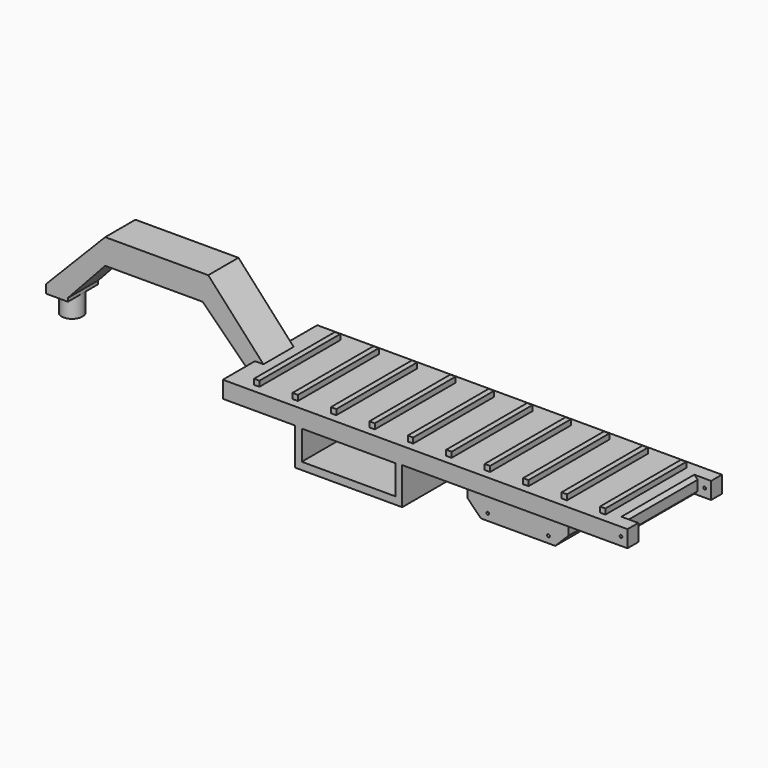
from build123d import *

# Parameters (mm, degrees)
F0_W      = 152.4
F0_H      = 44.45
F1_DEPTH  = 6.35
F2_W      = 38.1
F2_H      = 30.48
F3_DEPTH  = 12.7
F2_W_2    = 5.08
F2_H_2    = 34.29
F4_DEPTH  = 25.4
F5_R      = 0.508
F6_DEPTH  = 49.2252
F7_SIZE   = 5.08
F8_SIZE   = 1.27
F10_DEPTH = 7.112
F11_W     = 8.2420259714
F11_H     = 14.224
F11_R     = 3.9205193465
F12_DEPTH = 7.874
F13_W     = 2.032
F13_H     = 38.1
F14_DEPTH = 2.032
F15_R     = 0.508
F16_DEPTH = 33.274
F17_W     = 40.4452867806
F17_H     = 44.45
F18_DEPTH = 13.97
F19_W     = 35.2318603545
F19_H     = 10.9959305264
F20_DEPTH = 53.086


with BuildPart() as f1:
    # F0 (on Top) → F1 (new body)
    with BuildSketch(Plane.XY):
        Rectangle(F0_W, F0_H)
    extrude(amount=-F1_DEPTH)

    # F2 (on face) → F3 (join)
    with BuildSketch(Plane(origin=(0, 0, -6.35), x_dir=(1, 0, 0), z_dir=(0, 0, -1))):
        with Locations((29.4156006661, 0)):
            Rectangle(F2_W, F2_H)
    extrude(amount=F3_DEPTH)

    # F2 (on face) → F4 (cut)
    with BuildSketch(Plane(origin=(0, 0, -6.35), x_dir=(1, 0, 0), z_dir=(0, 0, -1))):
        with Locations((73.66, 0)):
            Rectangle(F2_W_2, F2_H_2)
    extrude(amount=-F4_DEPTH, mode=Mode.SUBTRACT)

    # F5 (on face) → F6 (cut)
    with BuildSketch(Plane.XZ.offset(22.225)):
        with Locations((73.7442225218, -3.175)):
            Circle(F5_R)
    extrude(amount=-F6_DEPTH, mode=Mode.SUBTRACT)

    # F7
    f7_edges = [f1.edges().sort_by_distance(p)[0] for p in [
        (10.365601, 0, -19.05),
        (48.465601, 0, -19.05),
    ]]
    chamfer(f7_edges, length=F7_SIZE)

    # F8
    f8_edges = [f1.edges().sort_by_distance(p)[0] for p in [
        (71.12, 0, 0),
        (71.12, 0, -6.35),
    ]]
    chamfer(f8_edges, length=F8_SIZE)

    # F9 (on Front) → F10 (join, symmetric)
    with BuildSketch(Plane.XZ):
        Polygon((-76.2085393071, 0), (-73.0043798685, 0), (-93.789872226, 22.7824151516), (-132.6064432787, 22.7824151516), (-154.8683792353, 0), (-154.8683792353, -11.0822748393), (-146.6263532639, -11.0822748393), (-146.6263532639, -1.9209668972), (-132.6064432787, 13.28467889), (-95.8832409805, 13.28467889), (-76.2085393071, -6.2972982414), align=None)
    extrude(amount=F10_DEPTH, both=True)

    # F11 (on face) → F12 (cut)
    with BuildSketch(Plane(origin=(0, 0, -11.0822748393), x_dir=(1, 0, 0), z_dir=(0, 0, -1))):
        with Locations((-150.7473662496, 0)):
            Rectangle(F11_W, F11_H)
        with Locations((-150.7473662496, 0)):
            Circle(F11_R, mode=Mode.SUBTRACT)
    extrude(amount=-F12_DEPTH, mode=Mode.SUBTRACT)

    # F13 (on face) → F14 (join)
    with BuildSketch(Plane.XY):
        with Locations((-65.9789626062, 0)):
            Rectangle(F13_W, F13_H)
        with Locations((-51.5009626062, 0)):
            Rectangle(F13_W, F13_H)
        with Locations((-37.0229626062, 0)):
            Rectangle(F13_W, F13_H)
        with Locations((-22.5449626062, 0)):
            Rectangle(F13_W, F13_H)
        with Locations((-8.0669626062, 0)):
            Rectangle(F13_W, F13_H)
        with Locations((6.4110373938, 0)):
            Rectangle(F13_W, F13_H)
        with Locations((20.8890373938, 0)):
            Rectangle(F13_W, F13_H)
        with Locations((35.3670373938, 0)):
            Rectangle(F13_W, F13_H)
        with Locations((49.8450373938, 0)):
            Rectangle(F13_W, F13_H)
        with Locations((64.3230373938, 0)):
            Rectangle(F13_W, F13_H)
    extrude(amount=F14_DEPTH)

    # F15 (on face) → F16 (cut)
    with BuildSketch(Plane.XZ.offset(15.24)):
        with Locations((17.9856006661, -16.51)):
            Circle(F15_R)
        with Locations((40.8456006661, -16.51)):
            Circle(F15_R)
    extrude(amount=-F16_DEPTH, mode=Mode.SUBTRACT)

    # F17 (on face) → F18 (join)
    with BuildSketch(Plane(origin=(0, 0, -6.35), x_dir=(1, 0, 0), z_dir=(0, 0, -1))):
        with Locations((-28.8755632937, 0)):
            Rectangle(F17_W, F17_H)
    extrude(amount=F18_DEPTH)

    # F19 (on face) → F20 (cut)
    with BuildSketch(Plane(origin=(0, 22.225, 0), x_dir=(-1, 0, 0), z_dir=(0, 1, 0))):
        with Locations((28.8652880117, -12.0470381808)):
            Rectangle(F19_W, F19_H)
    extrude(amount=-F20_DEPTH, mode=Mode.SUBTRACT)


solid = f1.part
